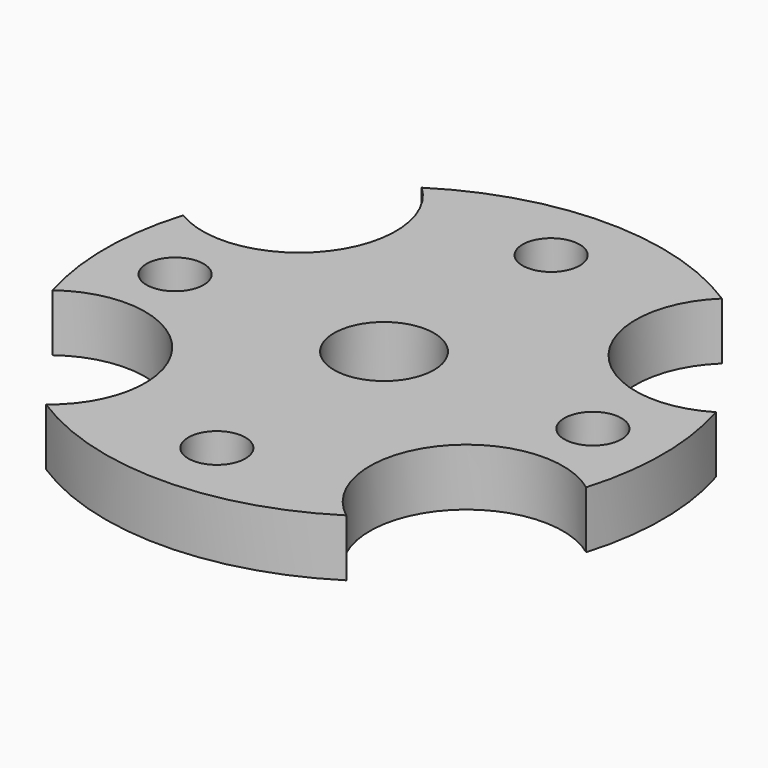
from build123d import *

# Parameters (mm, degrees)
F1_R     = 6.35
F1_R_2   = 11.0998
F2_DEPTH = 12.7


with BuildPart() as f2:
    # F1 (on face) → F2 (new body)
    with BuildSketch(Plane.XY):
        with BuildLine():
            ThreePointArc((33.339887, 52.153976), (0, 61.8998), (-33.339887, 52.153976))
            ThreePointArc((-33.339887, 52.153976), (-31.01255, 23.579573), (-59.169025, 18.18273))
            ThreePointArc((-59.169025, 18.18273), (-61.899657, 0.132973), (-59.246599, -17.92835))
            ThreePointArc((-59.246599, -17.92835), (-29.299818, -22.178176), (-33.339887, -52.153976))
            ThreePointArc((-33.339887, -52.153976), (0, -61.8998), (33.339887, -52.153976))
            ThreePointArc((33.339887, -52.153976), (29.299818, -22.178176), (59.246599, -17.92835))
            ThreePointArc((59.246599, -17.92835), (61.899657, 0.132973), (59.169025, 18.18273))
            ThreePointArc((59.169025, 18.18273), (31.01255, 23.579573), (33.339887, 52.153976))
        make_face()
        with Locations((-46.4058, 0)):
            Circle(F1_R, mode=Mode.SUBTRACT)
        with Locations((0, -46.4058)):
            Circle(F1_R, mode=Mode.SUBTRACT)
        Circle(F1_R_2, mode=Mode.SUBTRACT)
        with Locations((46.4058, 0)):
            Circle(F1_R, mode=Mode.SUBTRACT)
        with Locations((0, 46.4058)):
            Circle(F1_R, mode=Mode.SUBTRACT)
    extrude(amount=F2_DEPTH)


solid = f2.part
